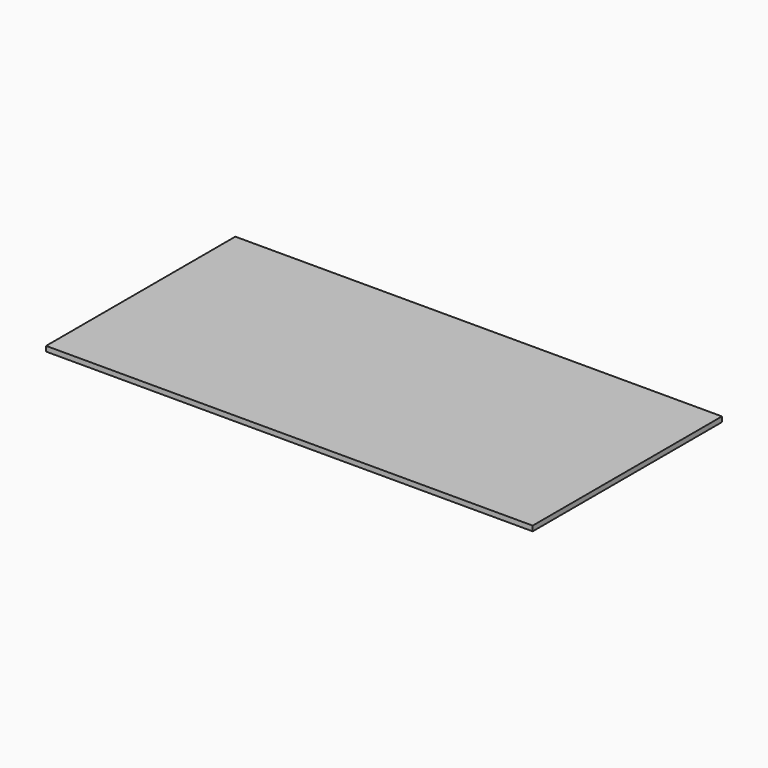
from build123d import *

# Parameters (mm, degrees)
SKETCH001_W   = 1828.8
SKETCH001_H   = 889
EXTRUDE_DEPTH = 19.05


with BuildPart() as part:
    # Sketch001 → Extrude (new body)
    with BuildSketch(Plane.XY):
        with Locations((914.4, 444.5)):
            Rectangle(SKETCH001_W, SKETCH001_H)
    extrude(amount=EXTRUDE_DEPTH)


solid = part.part
